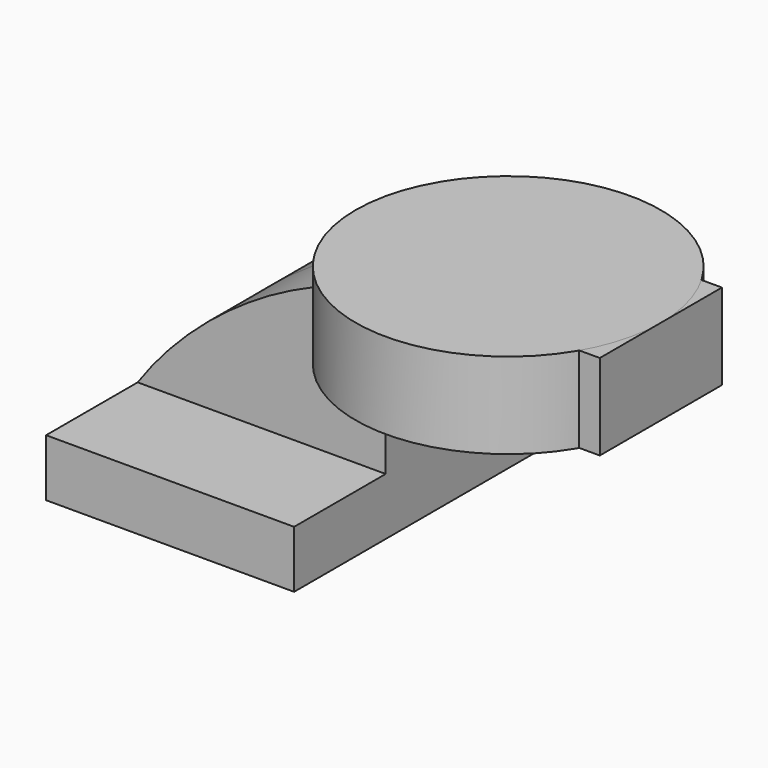
from build123d import *

# Parameters (mm, degrees)
F1_DEPTH = 63.5
F2_DEPTH = 25.4
F3_DEPTH = 25.4


with BuildPart() as f1:
    # F0 (on Front) → F1 (new body, symmetric)
    with BuildSketch(Plane.XZ):
        Polygon((-41.275, 9.525), (-41.275, -9.525), (41.275, -9.525), (41.275, 9.525), (22.225, 9.525), align=None)
    extrude(amount=F1_DEPTH, both=True)

    # F0 (on Front) → F2 (join, symmetric)
    with BuildSketch(Plane.XZ):
        with BuildLine():
            add(Edge.make_bspline(
                [(-41.275, 9.525), (-20.042543, 40.149777), (19.782706, 65.131482), (57.15, 64.852284)],
                knots=[0, 0, 0, 0, 112.90965, 112.90965, 112.90965, 112.90965], degree=3))
            Line((-41.275, 9.525), (22.225, 9.525))
            Line((22.225, 9.525), (41.275, 9.525))
            Line((41.275, 9.525), (41.275, 29.927282))
            ThreePointArc((41.275, 29.927282), (43.046278, 37.214302), (47.964847, 42.8752))
            ThreePointArc((47.964847, 42.8752), (54.588939, 45.594336), (61.734077, 45.126027))
            Line((61.734077, 45.126027), (61.734077, 64.852284))
            Line((61.734077, 64.852284), (57.15, 64.852284))
        make_face()
    extrude(amount=F2_DEPTH, both=True)

    # F0 (on Front) → F3 (join, symmetric)
    with BuildSketch(Plane.XZ):
        Polygon((61.734077, 66.675), (61.734077, 64.852284), (87.416034, 64.852284), (87.134077, 42.8752), (66.335153, 42.8752), (61.734077, 42.8752), (61.734077, 38.1), (112.534077, 38.1), (112.534077, 66.675), align=None)
        with BuildLine():
            Line((87.416034, 64.852284), (61.734077, 64.852284))
            Line((61.734077, 64.852284), (61.734077, 45.126027))
            ThreePointArc((61.734077, 45.126027), (64.125993, 44.187406), (66.335153, 42.8752))
            Line((66.335153, 42.8752), (87.134077, 42.8752))
            Line((87.134077, 42.8752), (87.416034, 64.852284))
        make_face()
    extrude(amount=F3_DEPTH, both=True)


with BuildPart() as f4:
    # F0 (on Front) → F4 (revolve)
    with BuildSketch(Plane.XZ):
        Polygon((61.734077, 66.675), (61.734077, 64.852284), (87.416034, 64.852284), (87.134077, 42.8752), (66.335153, 42.8752), (61.734077, 42.8752), (61.734077, 38.1), (112.534077, 38.1), (112.534077, 66.675), align=None)
    revolve(axis=Axis((61.734077, 0, 52.3875), (0, 0, 1)))


solid = Compound([f1.part, f4.part])
